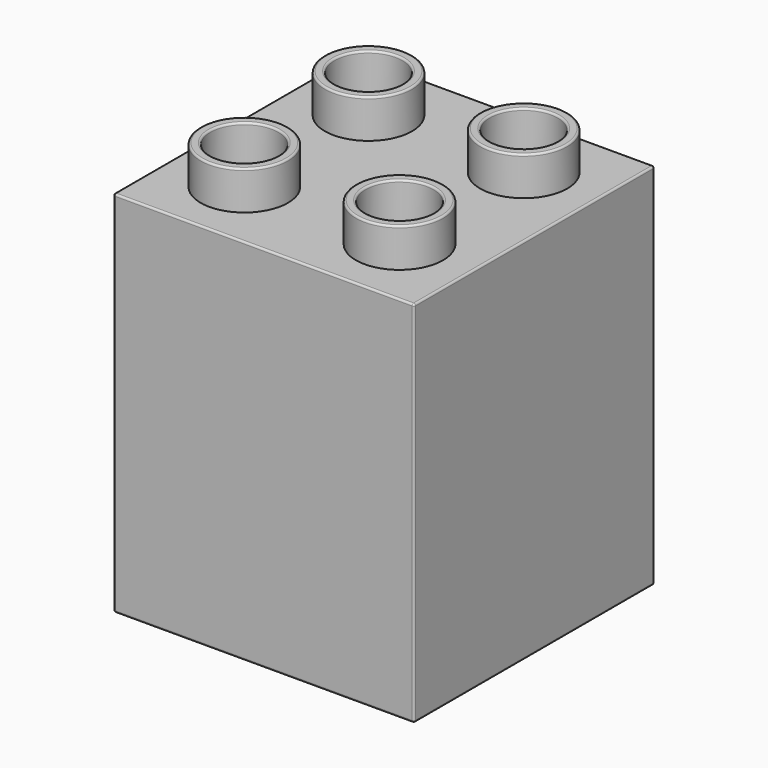
from build123d import *

# Parameters (mm, degrees)
BOX_W           = 31
BOX_H           = 31
BOX_DEPTH       = 38
SKETCH_R        = 4.5
SKETCH_R_2      = 3.5
PAD_DEPTH       = 4
SKETCH001_R     = 6.5
POCKET_DEPTH    = 35
SKETCH002_R     = 5.5
POCKET001_DEPTH = 25
FILLET_R        = 0.2
FILLET001_R     = 0.2
FILLET002_R     = 0.2
FILLET003_R     = 0.2
FILLET004_R     = 0.2
FILLET005_R     = 0.2
FILLET006_R     = 0.2
FILLET007_R     = 0.2
FILLET008_R     = 0.2
FILLET009_R     = 0.2
FILLET010_R     = 0.2
FILLET011_R     = 0.2
FILLET012_R     = 0.2


with BuildPart() as part:
    # Box → Box (new body)
    with BuildSketch(Plane.XY):
        with Locations((15.5, 15.5)):
            Rectangle(BOX_W, BOX_H)
    extrude(amount=BOX_DEPTH)

    # Sketch (on Face6 of Box) → Pad (new body)
    with BuildSketch(Plane.XY.offset(38)):
        with Locations((7.5, 7.5)):
            Circle(SKETCH_R)
        with Locations((7.5, 7.5)):
            Circle(SKETCH_R_2, mode=Mode.SUBTRACT)
        with Locations((7.5, 23.5)):
            Circle(SKETCH_R)
        with Locations((7.5, 23.5)):
            Circle(SKETCH_R_2, mode=Mode.SUBTRACT)
        with Locations((23.5, 7.5)):
            Circle(SKETCH_R)
        with Locations((23.5, 7.5)):
            Circle(SKETCH_R_2, mode=Mode.SUBTRACT)
        with Locations((23.5, 23.5)):
            Circle(SKETCH_R)
        with Locations((23.5, 23.5)):
            Circle(SKETCH_R_2, mode=Mode.SUBTRACT)
    extrude(amount=PAD_DEPTH)

    # Sketch001 (on Face5 of Pad) → Pocket (cut)
    with BuildSketch(Plane(origin=(0, 0, 0), x_dir=(1, 0, 0), z_dir=(0, 0, -1))):
        Polygon((1, -1), (7, -1), (7, -2.5), (8, -2.5), (8, -1), (23, -1), (23, -2.5), (24, -2.5), (24, -1), (30, -1), (30, -7), (28.5, -7), (28.5, -8), (30, -8), (30, -23), (28.5, -23), (28.5, -24), (30, -24), (30, -30), (24, -30), (24, -28.5), (23, -28.5), (23, -30), (8, -30), (8, -28.5), (7, -28.5), (7, -30), (1, -30), (1, -24), (2.5, -24), (2.5, -23), (1, -23), (1, -8), (2.5, -8), (2.5, -7), (1, -7), align=None)
        with Locations((15.5, -15.5)):
            Circle(SKETCH001_R, mode=Mode.SUBTRACT)
    extrude(amount=-POCKET_DEPTH, mode=Mode.SUBTRACT)

    # Sketch002 (on Face61 of Pocket) → Pocket001 (cut)
    with BuildSketch(Plane(origin=(0, 0, 0), x_dir=(1, 0, 0), z_dir=(0, 0, -1))):
        with Locations((15.5, -15.5)):
            Circle(SKETCH002_R)
    extrude(amount=-POCKET001_DEPTH, mode=Mode.SUBTRACT)

    # Fillet
    fillet_edges = [part.edges().sort_by_distance(p)[0] for p in [
        (19, 7.5, 42),
    ]]
    fillet(fillet_edges, radius=FILLET_R)

    # Fillet001
    fillet001_edges = [part.edges().sort_by_distance(p)[0] for p in [
        (20, 7.5, 42),
    ]]
    fillet(fillet001_edges, radius=FILLET001_R)

    # Fillet002
    fillet002_edges = [part.edges().sort_by_distance(p)[0] for p in [
        (19, 23.5, 42),
    ]]
    fillet(fillet002_edges, radius=FILLET002_R)

    # Fillet003
    fillet003_edges = [part.edges().sort_by_distance(p)[0] for p in [
        (20, 23.5, 42),
    ]]
    fillet(fillet003_edges, radius=FILLET003_R)

    # Fillet004
    fillet004_edges = [part.edges().sort_by_distance(p)[0] for p in [
        (3, 23.5, 42),
    ]]
    fillet(fillet004_edges, radius=FILLET004_R)

    # Fillet005
    fillet005_edges = [part.edges().sort_by_distance(p)[0] for p in [
        (4, 23.5, 42),
    ]]
    fillet(fillet005_edges, radius=FILLET005_R)

    # Fillet006
    fillet006_edges = [part.edges().sort_by_distance(p)[0] for p in [
        (4, 7.5, 42),
    ]]
    fillet(fillet006_edges, radius=FILLET006_R)

    # Fillet007
    fillet007_edges = [part.edges().sort_by_distance(p)[0] for p in [
        (3, 7.5, 42),
    ]]
    fillet(fillet007_edges, radius=FILLET007_R)

    # Fillet008
    fillet008_edges = [part.edges().sort_by_distance(p)[0] for p in [
        (0, 15.5, 38),
    ]]
    fillet(fillet008_edges, radius=FILLET008_R)

    # Fillet009
    fillet009_edges = [part.edges().sort_by_distance(p)[0] for p in [
        (15.6, 0, 38),
    ]]
    fillet(fillet009_edges, radius=FILLET009_R)

    # Fillet010
    fillet010_edges = [part.edges().sort_by_distance(p)[0] for p in [
        (31, 15.6, 38),
    ]]
    fillet(fillet010_edges, radius=FILLET010_R)

    # Fillet011
    fillet011_edges = [part.edges().sort_by_distance(p)[0] for p in [
        (15.5, 31, 38),
    ]]
    fillet(fillet011_edges, radius=FILLET011_R)

    # Fillet012
    fillet012_edges = [part.edges().sort_by_distance(p)[0] for p in [
        (15.5, 31, 0),
        (0, 15.5, 0),
        (15.5, 0, 0),
        (31, 15.5, 0),
    ]]
    fillet(fillet012_edges, radius=FILLET012_R)


solid = part.part
